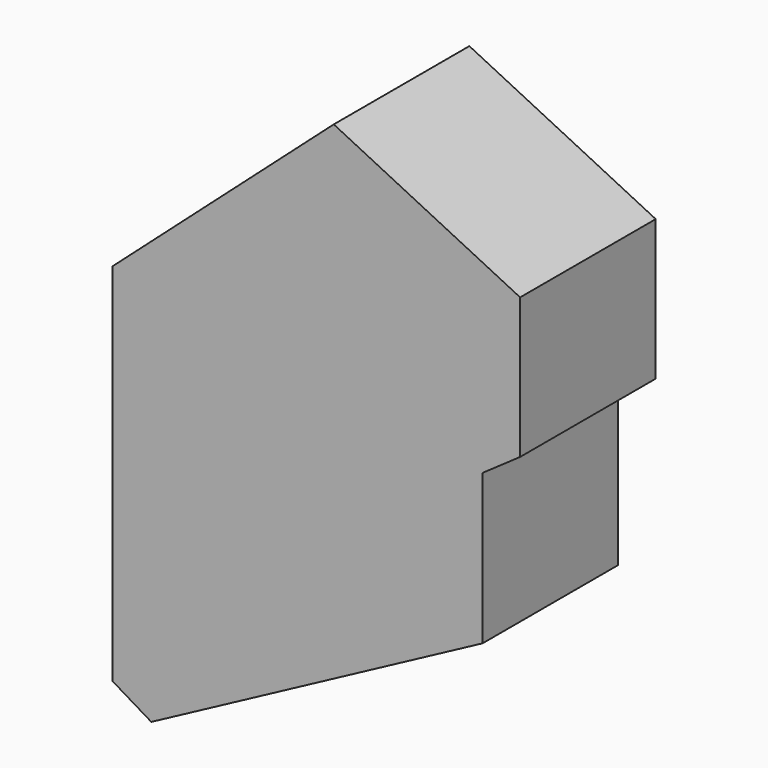
from build123d import *

# Parameters (mm, degrees)
F1_DEPTH = 25


with BuildPart() as f1:
    # F0 (on Front) → F1 (new body)
    with BuildSketch(Plane.XZ):
        Polygon((0, 48.207462), (-32.665953, 19.139083), (-32.665953, -34.680594), (-26.909839, -38.134262), (-26.909839, 10.217104), (-13.382967, 6.187824), (-13.382967, -7.339047), (-3.021961, -7.339047), (-3.021961, 10.217104), (27.485449, 34.680594), align=None)
        Polygon((-26.909839, 10.217104), (-26.909839, -38.134262), (21.953685, -12.039119), (21.953685, 10.096782), (-3.021961, -7.339047), (-13.382967, -7.339047), (-13.382967, 6.187824), align=None)
        Polygon((27.485449, 13.958579), (27.485449, 34.680594), (-3.021961, 10.217104), (-3.021961, -7.339047), (21.953685, 10.096782), align=None)
    extrude(amount=F1_DEPTH)


solid = f1.part
